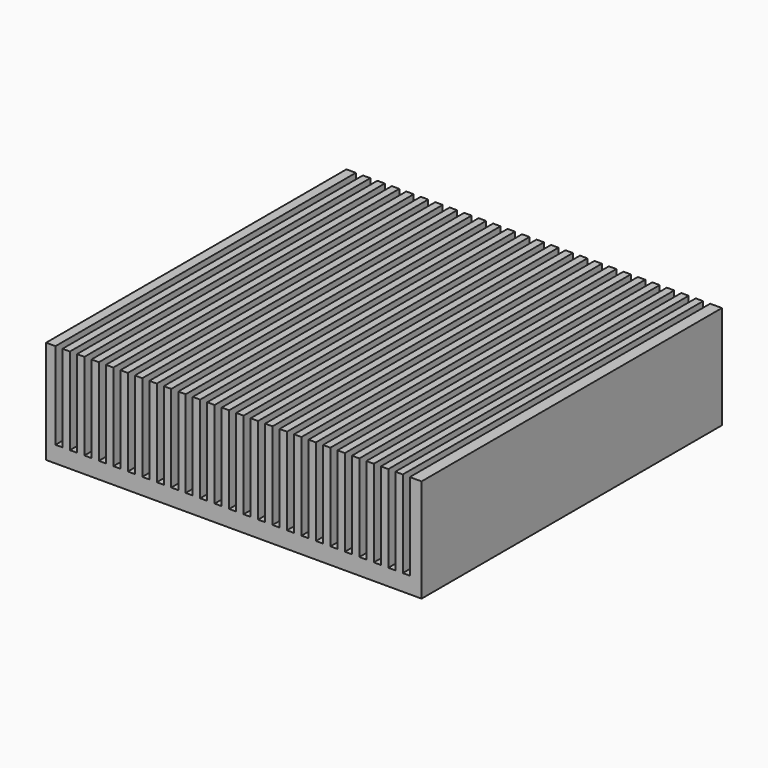
from build123d import *

# Parameters (mm, degrees)
SKETCH036_W            = 40
SKETCH036_H            = 40
PAD009_DEPTH           = 11
SKETCH037_W            = 0.75
SKETCH037_H            = 13.12
POCKET009_DEPTH        = 20.001
POCKET009_DEPTH_BACK   = 20.001
LINEARPATTERN002_COUNT = 25
LINEARPATTERN002_PITCH = 1.541667


with BuildPart() as part:
    # Sketch036 → Pad009 (new body)
    with BuildSketch(Plane.XY):
        Rectangle(SKETCH036_W, SKETCH036_H)
    extrude(amount=PAD009_DEPTH)

    # Sketch037 → Pocket009 (cut, two sides)
    with BuildSketch(Plane.XZ) as pocket009_sk:
        with Locations((-18.625, 8.31)):
            Rectangle(SKETCH037_W, SKETCH037_H)
    pocket009 = extrude(amount=-POCKET009_DEPTH, mode=Mode.SUBTRACT) + extrude(pocket009_sk.sketch, amount=POCKET009_DEPTH_BACK, mode=Mode.SUBTRACT)

    # LinearPattern002: Pocket009 ×25
    with Locations(*[(i * LINEARPATTERN002_PITCH, 0, 0) for i in range(1, LINEARPATTERN002_COUNT)]):
        add(pocket009, mode=Mode.SUBTRACT)


with BuildPart() as part_1:
    # Body022 placement: moved
    add(part.part.moved(Location((0, 0, 4))))


solid = part_1.part
